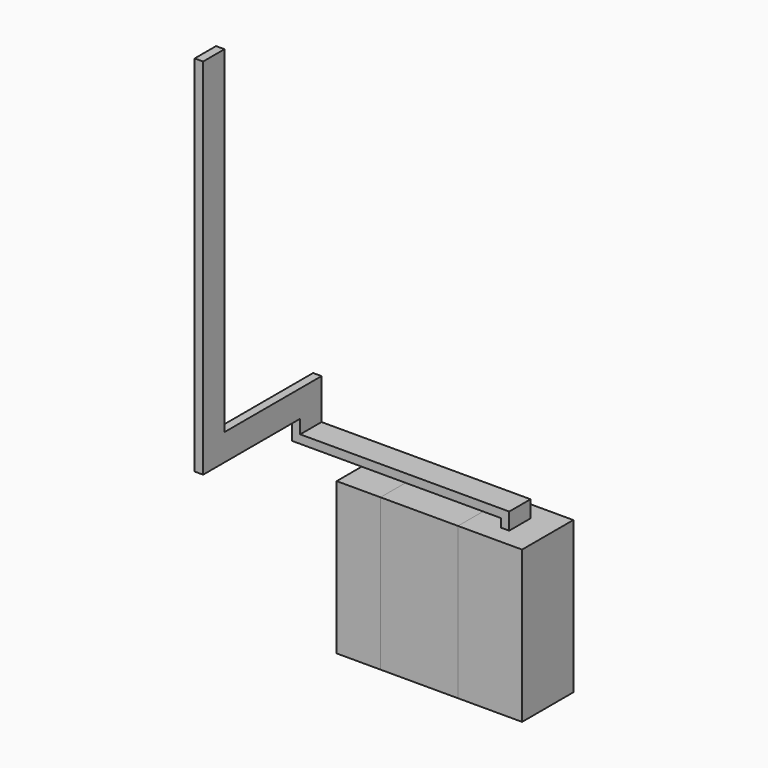
from build123d import *

# Parameters (mm, degrees)
F0_W      = 660.4
F0_H      = 965.2
F1_DEPTH  = 2286
F0_W_2    = 1168.4
F2_DEPTH  = 2286
F0_W_3    = 965.2
F3_DEPTH  = 2286
F4_W      = 127
F4_H      = 401.828
F5_DEPTH  = 254
F6_W      = 401.828
F6_H      = 127
F7_DEPTH  = 3149.6
F8_W      = 127
F8_H      = 401.828
F9_DEPTH  = 609.6
F10_W     = 127
F10_H     = 401.828
F11_DEPTH = 1828.8
F12_W     = 127
F12_H     = 401.828
F13_DEPTH = 5080


with BuildPart() as f1:
    # F0 (on Top) → F1 (new body)
    with BuildSketch(Plane.XY):
        with Locations((330.2, 482.6)):
            Rectangle(F0_W, F0_H)
    extrude(amount=F1_DEPTH)


with BuildPart() as f2:
    # F0 (on Top) → F2 (new body)
    with BuildSketch(Plane.XY):
        with Locations((1244.6, 482.6)):
            Rectangle(F0_W_2, F0_H)
    extrude(amount=F2_DEPTH)


with BuildPart() as f3:
    # F0 (on Top) → F3 (new body)
    with BuildSketch(Plane.XY):
        with Locations((2311.4, 482.6)):
            Rectangle(F0_W_3, F0_H)
    extrude(amount=F3_DEPTH)


with BuildPart() as f5:
    # F4 (on face) → F5 (new body)
    with BuildSketch(Plane.XY.offset(2286)):
        with Locations((2311.4, 482.6)):
            Rectangle(F4_W, F4_H)
    extrude(amount=F5_DEPTH)

    # F6 (on face) → F7 (join)
    with BuildSketch(Plane(origin=(2247.9, 0, 0), x_dir=(0, -1, 0), z_dir=(-1, 0, 0))):
        with Locations((-482.6, 2476.5)):
            Rectangle(F6_W, F6_H)
    extrude(amount=F7_DEPTH)

    # F8 (on face) → F9 (join)
    with BuildSketch(Plane.XY.offset(2540)):
        with Locations((-838.2, 482.6)):
            Rectangle(F8_W, F8_H)
    extrude(amount=F9_DEPTH)

    # F10 (on face) → F11 (join)
    with BuildSketch(Plane.XZ.offset(-281.686)):
        with Locations((-838.2, 2948.686)):
            Rectangle(F10_W, F10_H)
    extrude(amount=F11_DEPTH)

    # F12 (on face) → F13 (join)
    with BuildSketch(Plane.XY.offset(3149.6)):
        with Locations((-838.2, -1346.2)):
            Rectangle(F12_W, F12_H)
    extrude(amount=F13_DEPTH)


solid = Compound([f1.part, f2.part, f3.part, f5.part])
